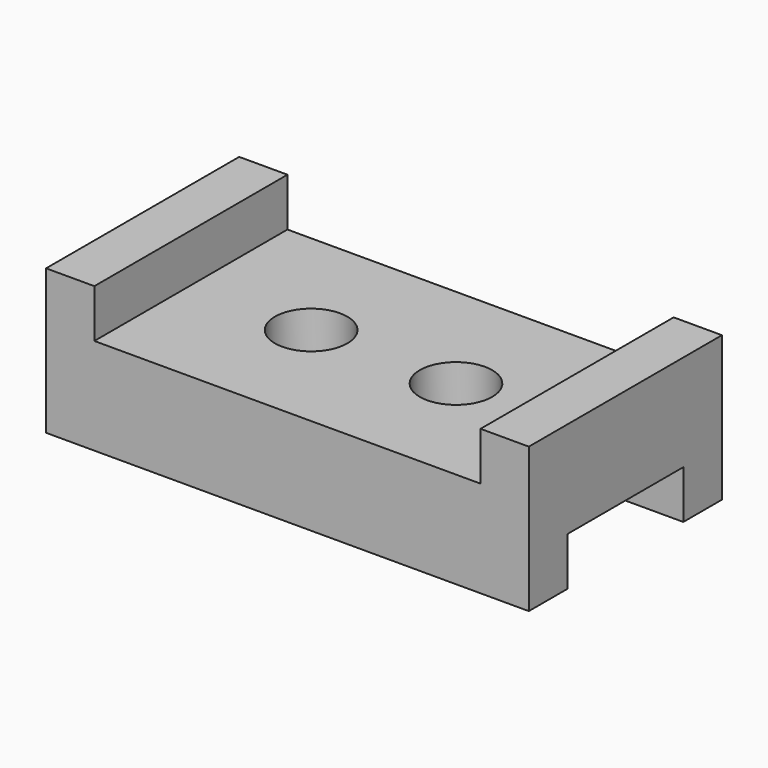
from build123d import *

# Parameters (mm, degrees)
F0_W     = 127
F0_H     = 63.5
F1_DEPTH = 25.4
F2_W     = 12.7
F2_H     = 63.5
F3_DEPTH = 12.7
F4_W     = 12.7
F4_H     = 63.5
F5_DEPTH = 12.7
F6_R     = 9.525
F7_DEPTH = 25.401
F8_W     = 38.1
F8_H     = 12.7
F9_DEPTH = 127.001


with BuildPart() as f1:
    # F0 (on Top) → F1 (new body)
    with BuildSketch(Plane.XY):
        with Locations((9.126691, -20.352242)):
            Rectangle(F0_W, F0_H)
    extrude(amount=F1_DEPTH)

    # F2 (on face) → F3 (join)
    with BuildSketch(Plane.XY.offset(25.4)):
        with Locations((-48.023309, -20.352242)):
            Rectangle(F2_W, F2_H)
    extrude(amount=F3_DEPTH)

    # F4 (on face) → F5 (join)
    with BuildSketch(Plane.XY.offset(25.4)):
        with Locations((66.276691, -20.352242)):
            Rectangle(F4_W, F4_H)
    extrude(amount=F5_DEPTH)

    # F6 (on face) → F7 (cut, through all)
    with BuildSketch(Plane.XY.offset(25.4)):
        with Locations((-9.947389, -20.466596)):
            Circle(F6_R)
        with Locations((28.152611, -20.466596)):
            Circle(F6_R)
    extrude(amount=-F7_DEPTH, mode=Mode.SUBTRACT)

    # F8 (on face) → F9 (cut, through all)
    with BuildSketch(Plane.YZ.offset(72.626691)):
        with Locations((-20.352242, 6.35)):
            Rectangle(F8_W, F8_H)
    extrude(amount=-F9_DEPTH, mode=Mode.SUBTRACT)


solid = f1.part
